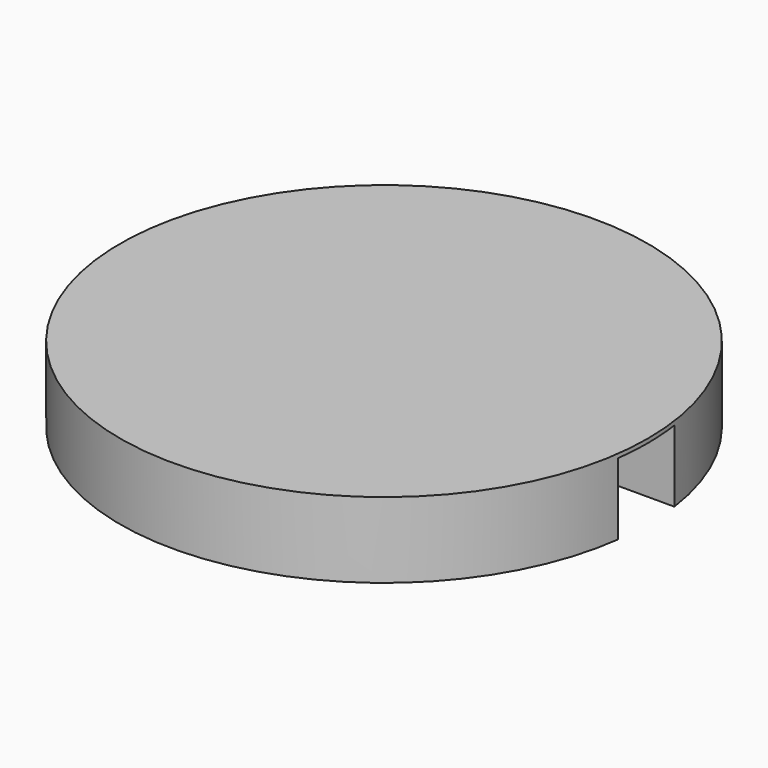
from build123d import *

# Parameters (mm, degrees)
F0_R     = 84.283407
F1_DEPTH = 24.13
F2_W     = 97.79
F2_H     = 22.606
F3_DEPTH = 22.86


with BuildPart() as f1:
    # F0 (on Top) → F1 (new body)
    with BuildSketch(Plane.XY):
        Circle(F0_R)
    extrude(amount=F1_DEPTH)

    # F2 (on Top) → F3 (cut)
    with BuildSketch(Plane.XY):
        with Locations((35.646442, 0.283102)):
            Rectangle(F2_W, F2_H)
    extrude(amount=F3_DEPTH, mode=Mode.SUBTRACT)


solid = f1.part
